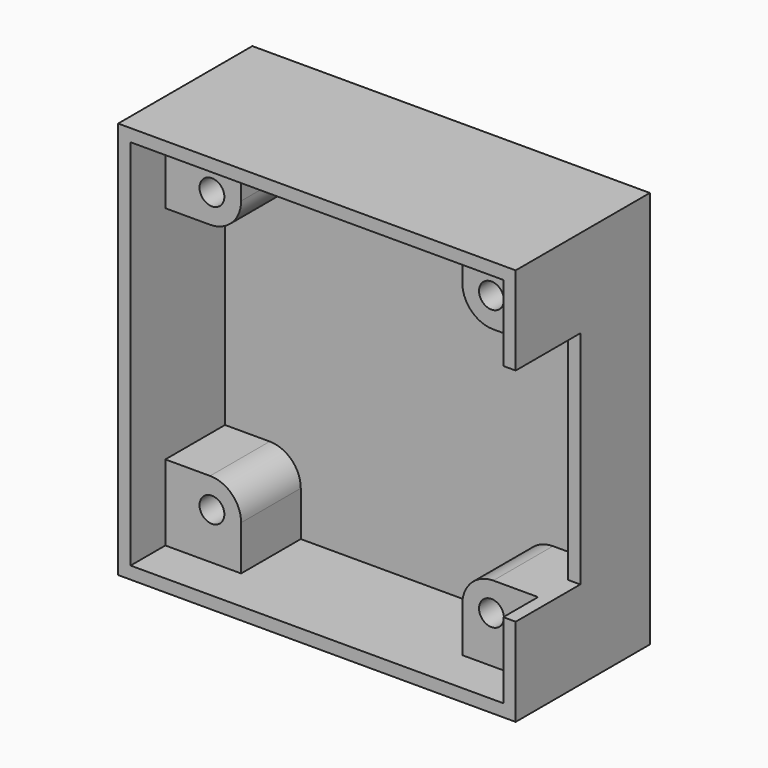
from build123d import *

# Parameters (mm, degrees)
SKETCH_W             = 32
SKETCH_H             = 32
PAD_DEPTH            = 4
SKETCH001_W          = 32
SKETCH001_H          = 32
SKETCH001_R          = 1
PAD001_DEPTH         = 9.5
SKETCH002_W          = 30
SKETCH002_H          = 30
POCKET_DEPTH         = 3.5
SKETCH003_W          = 1
SKETCH003_H          = 17.8
POCKET001_DEPTH      = 6.5
SKETCH004_R          = 1
POCKET002_DEPTH      = 4.001
POCKET002_DEPTH_BACK = 9.501
POCKET003_DEPTH      = 3


with BuildPart() as part:
    # Sketch → Pad (new body)
    with BuildSketch(Plane.XZ):
        with Locations((0, 16)):
            Rectangle(SKETCH_W, SKETCH_H)
    extrude(amount=PAD_DEPTH)

    # Sketch001 (on Face6 of Pad) → Pad001 (join)
    with BuildSketch(Plane.XZ.offset(4)):
        with Locations((0, 16)):
            Rectangle(SKETCH001_W, SKETCH001_H)
        with Locations((-11.25, 4.75)):
            Circle(SKETCH001_R, mode=Mode.SUBTRACT)
        with Locations((11.25, 4.75)):
            Circle(SKETCH001_R, mode=Mode.SUBTRACT)
        with Locations((11.25, 27.25)):
            Circle(SKETCH001_R, mode=Mode.SUBTRACT)
        with Locations((-11.25, 27.25)):
            Circle(SKETCH001_R, mode=Mode.SUBTRACT)
        with BuildLine():
            Line((-15, 24.9), (-11.4, 24.9))
            ThreePointArc((-11.4, 24.9), (-9.632233, 25.632233), (-8.9, 27.4))
            Line((-8.9, 27.4), (-8.9, 31))
            Line((-8.9, 31), (8.9, 31))
            Line((8.9, 31), (8.9, 27.4))
            ThreePointArc((8.9, 27.4), (9.632233, 25.632233), (11.4, 24.9))
            Line((11.4, 24.9), (15, 24.9))
            Line((15, 24.9), (15, 7.1))
            Line((11.4, 7.1), (15, 7.1))
            ThreePointArc((11.4, 7.1), (9.632233, 6.367767), (8.9, 4.6))
            Line((8.9, 1), (8.9, 4.6))
            Line((8.9, 1), (-8.9, 1))
            Line((-8.9, 4.6), (-8.9, 1))
            ThreePointArc((-8.9, 4.6), (-9.632233, 6.367767), (-11.4, 7.1))
            Line((-15, 7.1), (-11.4, 7.1))
            Line((-15, 7.1), (-15, 24.9))
        make_face(mode=Mode.SUBTRACT)
    extrude(amount=PAD001_DEPTH)

    # Sketch002 (on Face9 of Pad001) → Pocket (cut)
    with BuildSketch(Plane.XZ.offset(13.5)):
        with Locations((0, 16)):
            Rectangle(SKETCH002_W, SKETCH002_H)
    extrude(amount=-POCKET_DEPTH, mode=Mode.SUBTRACT)

    # Sketch003 (on Face9 of Pocket) → Pocket001 (cut)
    with BuildSketch(Plane.XZ.offset(13.5)):
        with Locations((15.5, 16)):
            Rectangle(SKETCH003_W, SKETCH003_H)
    extrude(amount=-POCKET001_DEPTH, mode=Mode.SUBTRACT)

    # Sketch004 (on Face35 of Pocket001) → Pocket002 (cut, two sides)
    with BuildSketch(Plane.XZ.offset(4)) as pocket002_sk:
        with Locations((-11.25, 27.25)):
            Circle(SKETCH004_R)
        with Locations((11.25, 27.25)):
            Circle(SKETCH004_R)
        with Locations((11.25, 4.75)):
            Circle(SKETCH004_R)
        with Locations((-11.25, 4.75)):
            Circle(SKETCH004_R)
    extrude(amount=-POCKET002_DEPTH, mode=Mode.SUBTRACT)
    extrude(pocket002_sk.sketch, amount=POCKET002_DEPTH_BACK, mode=Mode.SUBTRACT)

    # Sketch005 (on Face4 of Pocket002) → Pocket003 (cut)
    with BuildSketch(Plane(origin=(0, 0, 0), x_dir=(1, 0, 0), z_dir=(0, 1, 0))):
        Polygon((-10.125, -6.698557), (-9, -4.75), (-10.125, -2.801443), (-12.375, -2.801443), (-13.5, -4.75), (-12.375, -6.698557), align=None)
        Polygon((12.375, -6.698557), (13.5, -4.75), (12.375, -2.801443), (10.125, -2.801443), (9, -4.75), (10.125, -6.698557), align=None)
        Polygon((12.375, -29.198557), (13.5, -27.25), (12.375, -25.301443), (10.125, -25.301443), (9, -27.25), (10.125, -29.198557), align=None)
        Polygon((-10.125, -29.198557), (-9, -27.25), (-10.125, -25.301443), (-12.375, -25.301443), (-13.5, -27.25), (-12.375, -29.198557), align=None)
    extrude(amount=-POCKET003_DEPTH, mode=Mode.SUBTRACT)


solid = part.part
